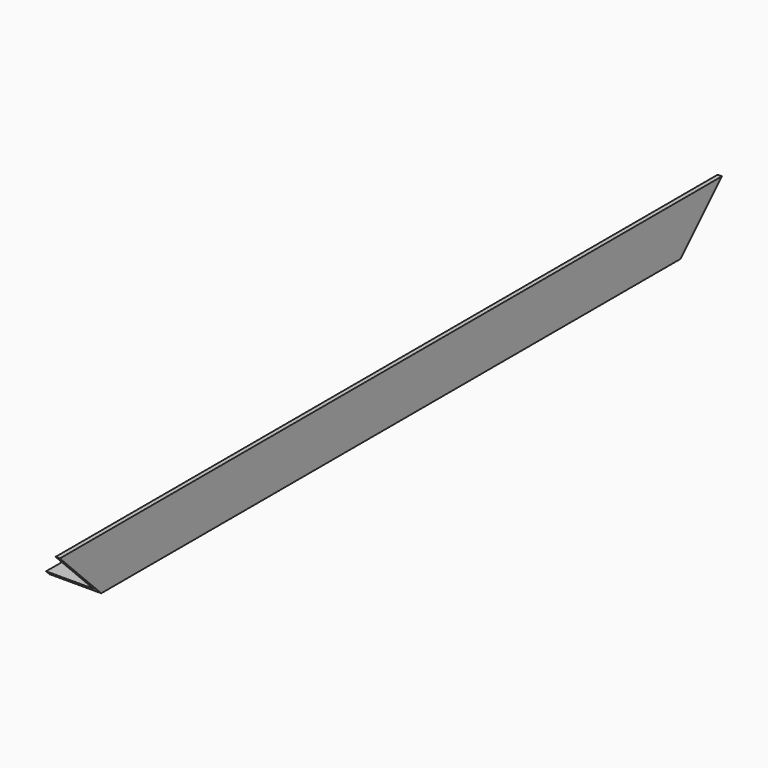
from build123d import *

# Parameters (mm, degrees)
F1_DEPTH = 609.6
F3_DEPTH = 38.101


with BuildPart() as f1:
    # F0 (on Front) → F1 (new body)
    with BuildSketch(Plane.XZ):
        Polygon((0, 3.175), (0, 0), (38.1, 0), (38.1, 38.1), (34.925, 38.1), (34.925, 3.175), align=None)
    extrude(amount=F1_DEPTH)

    # F2 (on face) → F3 (cut, through all)
    with BuildSketch(Plane.YZ.offset(38.1)):
        Polygon((0, 0), (0, 38.1), (-38.1, 0), align=None)
        Polygon((-571.5, 0), (-609.6, 38.1), (-609.6, 0), align=None)
    extrude(amount=-F3_DEPTH, mode=Mode.SUBTRACT)


solid = f1.part
